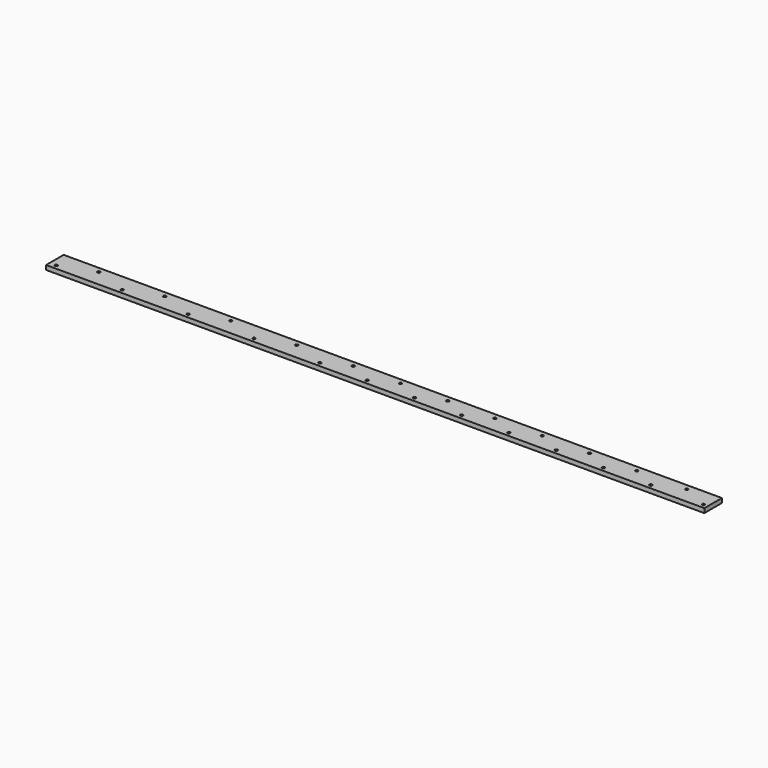
from build123d import *

# Parameters (mm, degrees)
F0_W     = 2995
F0_H     = 100
F0_R     = 6.25
F1_DEPTH = 20


with BuildPart() as f1:
    # F0 (on Top) → F1 (new body)
    with BuildSketch(Plane.XY):
        with Locations((1497.5, -50)):
            Rectangle(F0_W, F0_H)
        with Locations((30, -80)):
            Circle(F0_R, mode=Mode.SUBTRACT)
        with Locations((330, -80)):
            Circle(F0_R, mode=Mode.SUBTRACT)
        with Locations((630, -80)):
            Circle(F0_R, mode=Mode.SUBTRACT)
        with Locations((930, -80)):
            Circle(F0_R, mode=Mode.SUBTRACT)
        with Locations((1230, -80)):
            Circle(F0_R, mode=Mode.SUBTRACT)
        with Locations((1445, -80)):
            Circle(F0_R, mode=Mode.SUBTRACT)
        with Locations((1660, -80)):
            Circle(F0_R, mode=Mode.SUBTRACT)
        with Locations((1875, -80)):
            Circle(F0_R, mode=Mode.SUBTRACT)
        with Locations((2090, -80)):
            Circle(F0_R, mode=Mode.SUBTRACT)
        with Locations((2305, -80)):
            Circle(F0_R, mode=Mode.SUBTRACT)
        with Locations((2520, -80)):
            Circle(F0_R, mode=Mode.SUBTRACT)
        with Locations((2735, -80)):
            Circle(F0_R, mode=Mode.SUBTRACT)
        with Locations((2975, -80)):
            Circle(F0_R, mode=Mode.SUBTRACT)
        with Locations((180, -25)):
            Circle(F0_R, mode=Mode.SUBTRACT)
        with Locations((480, -25)):
            Circle(F0_R, mode=Mode.SUBTRACT)
        with Locations((780, -25)):
            Circle(F0_R, mode=Mode.SUBTRACT)
        with Locations((1080, -25)):
            Circle(F0_R, mode=Mode.SUBTRACT)
        with Locations((1337.5, -25)):
            Circle(F0_R, mode=Mode.SUBTRACT)
        with Locations((1552.5, -25)):
            Circle(F0_R, mode=Mode.SUBTRACT)
        with Locations((1767.5, -25)):
            Circle(F0_R, mode=Mode.SUBTRACT)
        with Locations((1982.5, -25)):
            Circle(F0_R, mode=Mode.SUBTRACT)
        with Locations((2197.5, -25)):
            Circle(F0_R, mode=Mode.SUBTRACT)
        with Locations((2412.5, -25)):
            Circle(F0_R, mode=Mode.SUBTRACT)
        with Locations((2627.5, -25)):
            Circle(F0_R, mode=Mode.SUBTRACT)
        with Locations((2855, -25)):
            Circle(F0_R, mode=Mode.SUBTRACT)
    extrude(amount=F1_DEPTH)


solid = f1.part
